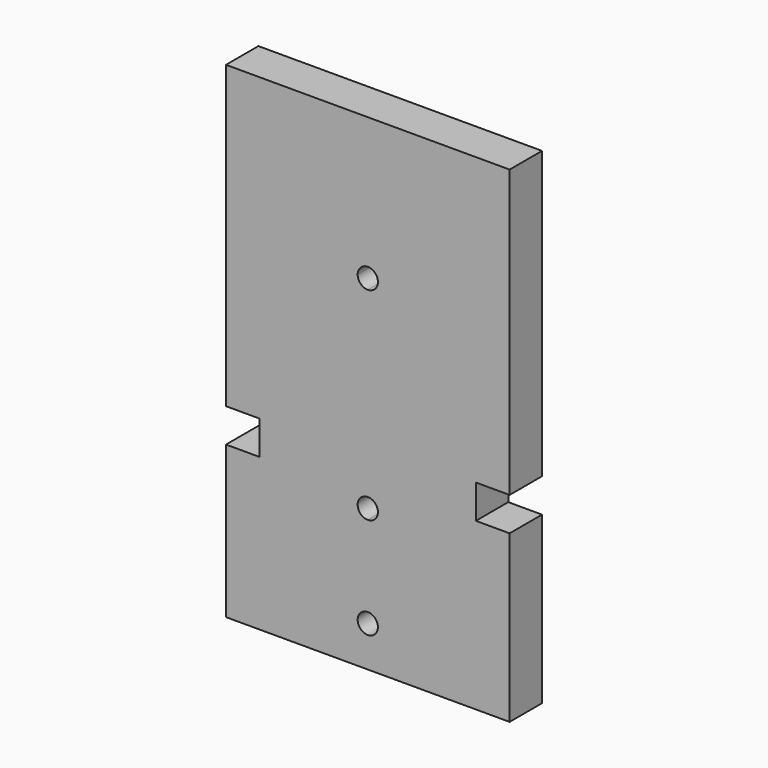
from build123d import *

# Parameters (mm, degrees)
F1_DEPTH = 6


with BuildPart() as f1:
    # F0 (on Front) → F1 (new body)
    with BuildSketch(Plane.XZ):
        Polygon((0, 22.498155), (0, 0), (42, 0), (42, 24.584079), (37, 24.584079), (37, 29.584079), (42, 29.584079), (42, 72), (0, 72), (0, 51), (0, 33.329517), (0, 27.498155), (5, 27.498155), (5, 22.498155), align=None)
        with BuildLine():
            ThreePointArc((22.5, 6), (19.93934, 4.93934), (21, 7.5))
            ThreePointArc((21, 7.5), (22.06066, 7.06066), (22.5, 6))
        make_face(mode=Mode.SUBTRACT)
        with BuildLine():
            ThreePointArc((21, 19.5), (19.5, 21), (21, 22.5))
            ThreePointArc((21, 22.5), (22.06066, 22.06066), (22.5, 21))
            ThreePointArc((22.5, 21), (22.06066, 19.93934), (21, 19.5))
        make_face(mode=Mode.SUBTRACT)
        with BuildLine():
            ThreePointArc((21, 49.5), (19.93934, 49.93934), (19.5, 51))
            ThreePointArc((19.5, 51), (21, 52.5), (22.5, 51))
            ThreePointArc((22.5, 51), (22.06066, 49.93934), (21, 49.5))
        make_face(mode=Mode.SUBTRACT)
    extrude(amount=F1_DEPTH)


solid = f1.part
